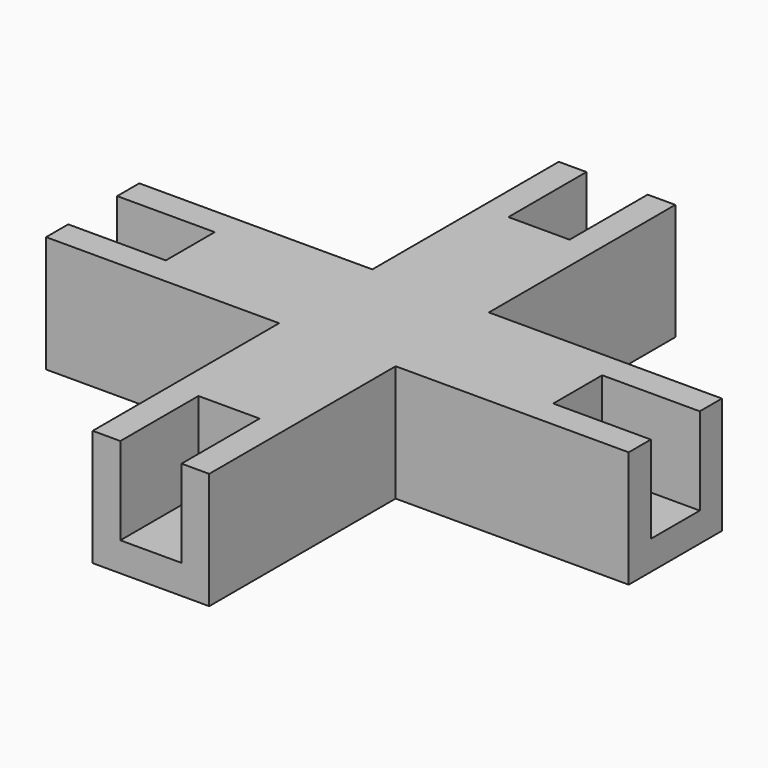
from build123d import *

# Parameters (mm, degrees)
PAD319_DEPTH            = 1
PAD320_DEPTH            = 3
PAD321_DEPTH            = 3
BODY053_PLACEMENT_ANGLE = 180


with BuildPart() as part:
    # Sketch476 → Pad319 (new body)
    with BuildSketch(Plane.XY.offset(-28)):
        Polygon((-2, 2), (-2, 10), (2, 10), (2, 2), (10, 2), (10, -2), (2, -2), (2, -10), (-2, -10), (-2, -2), (-10, -2), (-10, 2), align=None)
    extrude(amount=PAD319_DEPTH)

    # Sketch477 (on Face13 of Pad319) → Pad320 (join)
    with BuildSketch(Plane(origin=(0, 0, -28), x_dir=(1, 0, 0), z_dir=(0, 0, -1))):
        Polygon((-2, 10), (-2, 2), (-10, 2), (-10, 1.05), (-1.05, 1.05), (-1.05, 10), align=None)
        Polygon((-10, -2), (-2, -2), (-2, -10), (-1.05, -10), (-1.05, -1.05), (-10, -1.05), align=None)
        Polygon((2, -10), (2, -2), (10, -2), (10, -1.05), (1.05, -1.05), (1.05, -10), align=None)
        Polygon((10, 2), (2, 2), (2, 10), (1.05, 10), (1.05, 1.05), (10, 1.05), align=None)
    extrude(amount=PAD320_DEPTH)

    # Sketch478 (on Face3 of Pad320) → Pad321 (join)
    with BuildSketch(Plane(origin=(0, 0, -28), x_dir=(1, 0, 0), z_dir=(0, 0, -1))):
        Polygon((-6.65, 1.05), (-6.65, -1.05), (-1.05, -1.05), (-1.05, -6.65), (1.05, -6.65), (1.05, -1.05), (6.65, -1.05), (6.65, 1.05), (1.05, 1.05), (1.05, 6.65), (-1.05, 6.65), (-1.05, 1.05), align=None)
    extrude(amount=PAD321_DEPTH)


with BuildPart() as part_1:
    # Body053 placement: moved
    add(part.part.moved(Location((-29.27, 9.65, -44))).rotate(Axis((-29.27, 9.65, -44), (1, 0, 0)), BODY053_PLACEMENT_ANGLE))


solid = part_1.part
